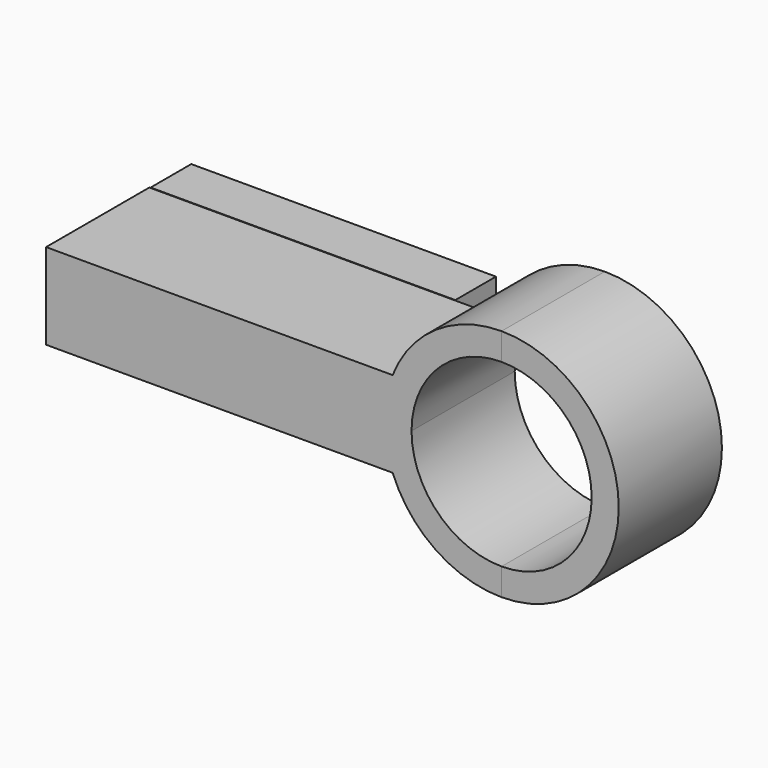
from build123d import *

# Parameters (mm, degrees)
F1_DEPTH = 38.1
F2_W     = 15
F2_H     = 19.4
F3_DEPTH = 95
F5_DEPTH = 38.1
F6_W     = 15
F6_H     = 3.3
F6_H_2   = 18.4
F6_W_2   = 15.5
F7_DEPTH = 90
F8_SIZE  = 2


with BuildPart() as f1:
    # F0 (on Front) → F1 (new body)
    with BuildSketch(Plane.XZ):
        with BuildLine():
            ThreePointArc((-32.1849343638, -12.7), (-34.6, 0), (-32.1849343638, 12.7))
            Line((-32.1849343638, 12.7), (-134.55, 12.7))
            Line((-134.55, 12.7), (-134.55, -12.7))
            Line((-134.55, -12.7), (-32.1849343638, -12.7))
        make_face()
        with BuildLine():
            Line((-26.6, -12.7), (-26.6, 6.93e-08))
            Line((-26.6, 6.93e-08), (-26.6, 12.7))
            Line((-26.6, 12.7), (-32.1849343638, 12.7))
            ThreePointArc((-32.1849343638, 12.7), (-34.6, 0), (-32.1849343638, -12.7))
            Line((-32.1849343638, -12.7), (-26.6, -12.7))
        make_face()
        with BuildLine():
            ThreePointArc((-26.6, 6.93e-08), (-18.8090403551, 18.8090404041), (0, 26.6))
            Line((0, 26.6), (0, 34.6))
            ThreePointArc((0, 34.6), (-19.4645832218, 28.605768649), (-32.1849343638, 12.7))
            Line((-32.1849343638, 12.7), (-26.6, 12.7))
            Line((-26.6, 12.7), (-26.6, 6.93e-08))
        make_face()
        with BuildLine():
            ThreePointArc((0, -26.6), (-18.8090404041, -18.8090403551), (-26.6, 6.93e-08))
            Line((-26.6, 6.93e-08), (-26.6, -12.7))
            Line((-26.6, -12.7), (-32.1849343638, -12.7))
            ThreePointArc((-32.1849343638, -12.7), (-19.4645832218, -28.605768649), (0, -34.6))
            Line((0, -34.6), (0, -26.6))
        make_face()
    extrude(amount=F1_DEPTH)

    # F2 (on face) → F3 (cut)
    with BuildSketch(Plane(origin=(-134.55, 0, 0), x_dir=(0, -1, 0), z_dir=(-1, 0, 0))):
        with Locations((7.5, 0)):
            Rectangle(F2_W, F2_H)
    extrude(amount=-F3_DEPTH, mode=Mode.SUBTRACT)


with BuildPart() as f5:
    # F4 (on Front) → F5 (new body, through all)
    with BuildSketch(Plane.XZ):
        with BuildLine():
            Line((0, -26.6), (0, -34.6))
            ThreePointArc((0, -34.6), (34.6, 0), (0, 34.6))
            Line((0, 34.6), (0, 26.6))
            ThreePointArc((0, 26.6), (26.6, 0), (0, -26.6))
        make_face()
    extrude(amount=F5_DEPTH)


with BuildPart() as f7:
    # F6 (on face) → F7 (new body)
    with BuildSketch(Plane(origin=(-134.55, 0, 0), x_dir=(0, -1, 0), z_dir=(-1, 0, 0))):
        with Locations((-8, -10.85)):
            Rectangle(F6_W, F6_H)
        with Locations((-8, 0)):
            Rectangle(F6_W, F6_H_2)
        with Locations((-8, 10.85)):
            Rectangle(F6_W, F6_H)
        with Locations((7.25, 0)):
            Rectangle(F6_W_2, F6_H_2)
    extrude(amount=-F7_DEPTH)

    # F8
    f8_edges = [f7.edges().sort_by_distance(p)[0] for p in [
        (-89.55, -15, -9.2),
        (-89.55, -15, 9.2),
    ]]
    chamfer(f8_edges, length=F8_SIZE)


solid = Compound([f1.part, f5.part, f7.part])
